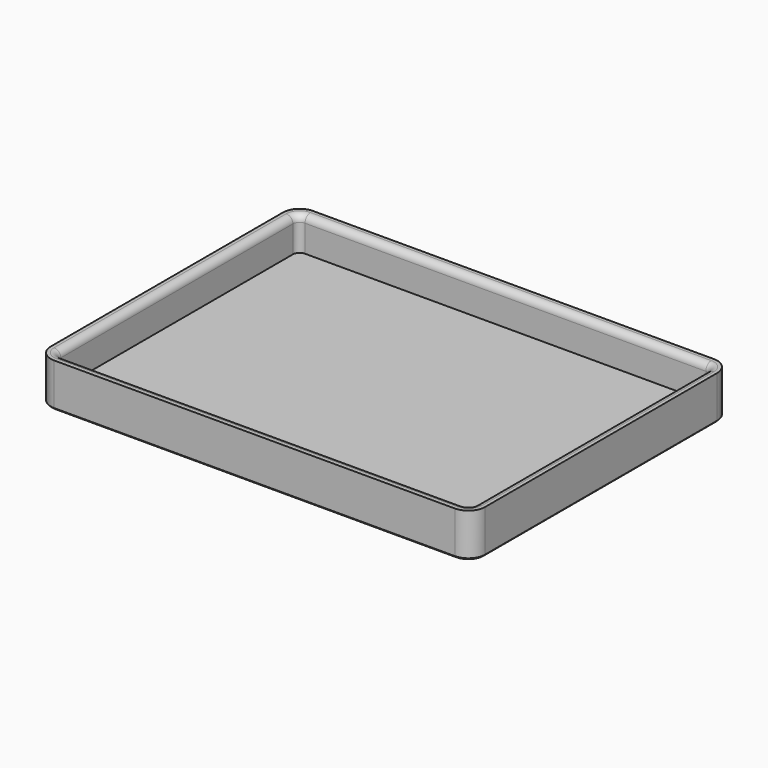
from build123d import *

# Parameters (mm, degrees)
F0_W     = 129.5
F0_H     = 96.5
F0_W_2   = 123.5
F0_H_2   = 90.5
F1_DEPTH = 10
F2_R     = 2
F3_W     = 129.5
F3_H     = 96.5
F4_DEPTH = 3
F5_R     = 5
F6_SIZE  = 0.5


with BuildPart() as f1:
    # F0 (on Top) → F1 (new body)
    with BuildSketch(Plane.XY):
        with Locations((-61.75, -60.5614758432)):
            Rectangle(F0_W, F0_H)
        with Locations((-61.75, -60.5614758432)):
            Rectangle(F0_W_2, F0_H_2, mode=Mode.SUBTRACT)
    extrude(amount=F1_DEPTH)

    # F2
    f2_edges = [f1.edges().sort_by_distance(p)[0] for p in [
        (-123.5, -105.811476, 5),
        (-61.75, -105.811476, 10),
        (-61.75, -15.311476, 10),
        (-123.5, -60.561476, 10),
        (0, -15.311476, 5),
        (0, -60.561476, 10),
        (0, -105.811476, 5),
        (-123.5, -15.311476, 5),
    ]]
    fillet(f2_edges, radius=F2_R)

    # F3 (on face) → F4 (join)
    with BuildSketch(Plane(origin=(0, 0, 0), x_dir=(1, 0, 0), z_dir=(0, 0, -1))):
        with Locations((-61.75, 60.5614758432)):
            Rectangle(F3_W, F3_H)
    extrude(amount=F4_DEPTH)

    # F5
    f5_edges = [f1.edges().sort_by_distance(p)[0] for p in [
        (-126.5, -108.811476, 3.5),
        (3, -108.811476, 3.5),
        (3, -12.311476, 3.5),
        (-126.5, -12.311476, 3.5),
    ]]
    fillet(f5_edges, radius=F5_R)

    # F6
    f6_edges = [f1.edges().sort_by_distance(p)[0] for p in [
        (-125.035534, -107.34701, -3),
        (-61.75, -108.811476, -3),
        (-126.5, -60.561476, -3),
        (1.535534, -107.34701, -3),
        (3, -60.561476, -3),
        (-125.035534, -13.775942, -3),
        (-61.75, -12.311476, -3),
        (1.535534, -13.775942, -3),
    ]]
    chamfer(f6_edges, length=F6_SIZE)


solid = f1.part
